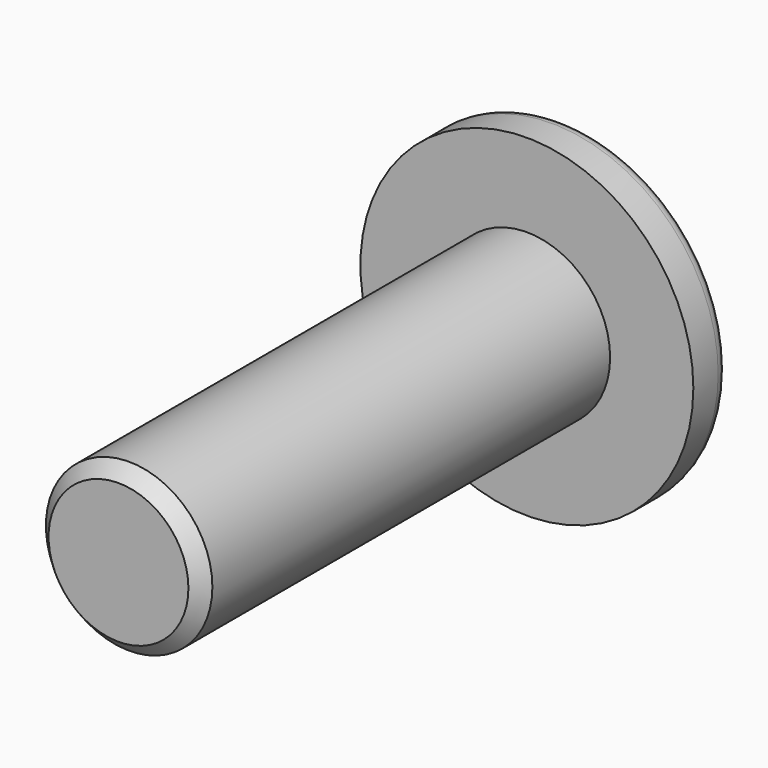
from build123d import *

# Parameters (mm, degrees)
F0_R     = 3.75
F1_DEPTH = 25
F2_R     = 7.5
F3_DEPTH = 2
F4_R     = 0.6
F5_SIZE  = 0.6


with BuildPart() as f1:
    # F0 (on Front) → F1 (new body)
    with BuildSketch(Plane.XZ):
        Circle(F0_R)
    extrude(amount=F1_DEPTH)

    # F2 (on Front) → F3 (join)
    with BuildSketch(Plane.XZ):
        Circle(F2_R)
    extrude(amount=F3_DEPTH)

    # F4
    f4_edges = [f1.edges().sort_by_distance(p)[0] for p in [
        (-7.5, 0, 0),
    ]]
    fillet(f4_edges, radius=F4_R)

    # F5
    f5_edges = [f1.edges().sort_by_distance(p)[0] for p in [
        (-3.75, -25, 0),
    ]]
    chamfer(f5_edges, length=F5_SIZE)


solid = f1.part
